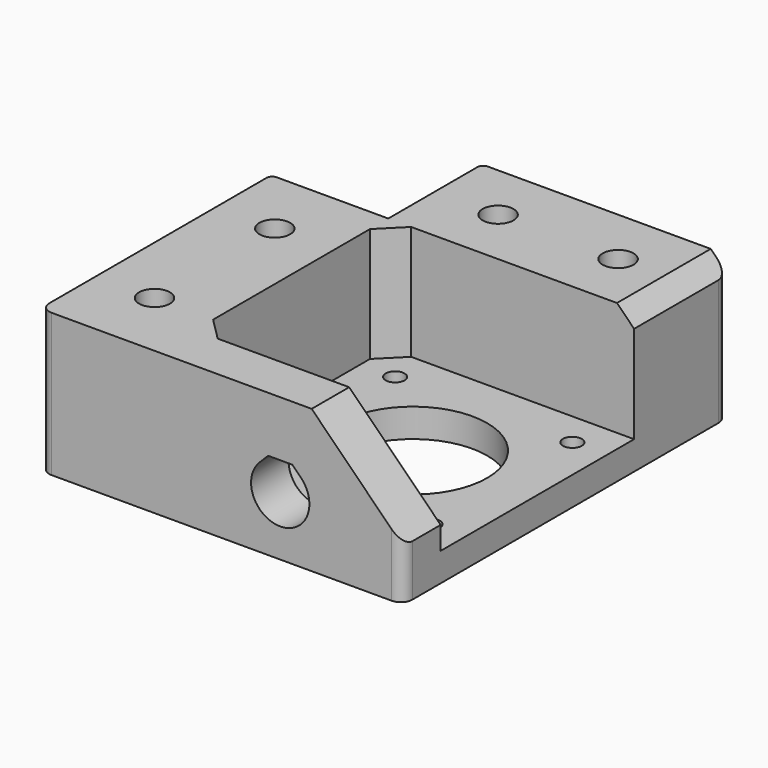
from build123d import *

# Parameters (mm, degrees)
EXTRUDE003_DEPTH           = 10
EXTRUDE003_PLACEMENT_ANGLE = 90
PRISM001_DEPTH             = 0.3
PRISM001_PLACEMENT_ANGLE   = 30
PRISM_DEPTH                = 0.3
SKETCH002_R                = 2.7
EXTRUDE002_DEPTH           = 25
SKETCH001_R                = 5.2
EXTRUDE001_DEPTH           = 6
SKETCH_R                   = 13
SKETCH_R_2                 = 1.65
EXTRUDE_DEPTH              = 5
BOX002_W                   = 43
BOX002_H                   = 42.3
BOX002_DEPTH               = 20
CHAMFER_SIZE               = 4
BOX001_W                   = 20.5
BOX001_H                   = 20.5
BOX001_DEPTH               = 25
BOX_W                      = 63.5
BOX_H                      = 71
BOX_DEPTH                  = 25
CHAMFER001_1_SIZE          = 16
CHAMFER001_2_SIZE          = 3
FILLET_1_R                 = 2
FILLET_2_R                 = 1


with BuildPart() as obj1:
    # Sketch003 → Extrude003 (new body)
    with BuildSketch(Plane.YZ):
        with BuildLine():
            ThreePointArc((-3.606261, 3.606229), (0, -5.1), (3.606261, 3.606229))
            Line((2.112489, 5.1), (3.606261, 3.606229))
            Line((-2.112489, 5.1), (2.112489, 5.1))
            Line((-3.606261, 3.606229), (-2.112489, 5.1))
        make_face()
    extrude(amount=EXTRUDE003_DEPTH)


with BuildPart() as obj1_1:
    # Extrude003 placement: moved
    add(obj1.part.moved(Location((42, 62, 10.2))).rotate(Axis((42, 62, 10.2), (0, 0, 1)), EXTRUDE003_PLACEMENT_ANGLE))


with BuildPart() as obj2:
    # Prism001 → Prism001 (new body)
    with BuildSketch(Plane.XY):
        Polygon((3.1, 0), (1.55, 2.684679), (-1.55, 2.684679), (-3.1, 0), (-1.55, -2.684679), (1.55, -2.684679), align=None)
    extrude(amount=PRISM001_DEPTH)


with BuildPart() as obj2_1:
    # Prism001 placement: moved
    add(obj2.part.moved(Location((10.25, 32.5, 6.3))).rotate(Axis((10.25, 32.5, 6.3), (0, 0, 1)), PRISM001_PLACEMENT_ANGLE))


with BuildPart() as soporte_circulos:
    # Prism → Prism (new body)
    with BuildSketch(Plane(origin=(10.25, 32.5, 6), x_dir=(1, 0, 0), z_dir=(0, 0, 1))):
        Polygon((5.3, 0), (-2.65, 4.589935), (-2.65, -4.589935), align=None)
    extrude(amount=PRISM_DEPTH)

    # Fusion003: union obj2
    add(obj2_1.part)


with BuildPart() as clone:
    # Clone base: copy of soporte_circulos
    add(soporte_circulos.part)


with BuildPart() as clone_1:
    # Clone placement: moved
    add(clone.part.moved(Location((0, 26.3, 0))))


with BuildPart() as clone001:
    # Clone001 base: copy of soporte_circulos
    add(soporte_circulos.part)


with BuildPart() as clone001_1:
    # Clone001 placement: moved
    add(clone001.part.moved(Location((21.25, -22.25, 0))))


with BuildPart() as clone002:
    # Clone002 base: copy of Clone001
    add(clone001_1.part)


with BuildPart() as clone002_1:
    # Clone002 placement: moved
    add(clone002.part.moved(Location((21, 0, 0))))


with BuildPart() as huecos_soporte_taladros:
    # Fusion004 base: copy of soporte_circulos
    add(soporte_circulos.part)

    # Fusion004: union Clone, Clone001, Clone002
    add(clone_1.part)
    add(clone001_1.part)
    add(clone002_1.part)


with BuildPart() as obj3:
    # Sketch002 → Extrude002 (new body)
    with BuildSketch(Plane.XY):
        with Locations((31.5, 10.25)):
            Circle(SKETCH002_R)
        with Locations((52.5, 10.25)):
            Circle(SKETCH002_R)
        with Locations((10.25, 32.5)):
            Circle(SKETCH002_R)
        with Locations((10.25, 58.8)):
            Circle(SKETCH002_R)
    extrude(amount=EXTRUDE002_DEPTH)


with BuildPart() as fusion005:
    # Sketch001 → Extrude001 (new body)
    with BuildSketch(Plane.XY):
        with Locations((31.5, 10.25)):
            Circle(SKETCH001_R)
        with Locations((52.5, 10.25)):
            Circle(SKETCH001_R)
        with Locations((10.25, 32.5)):
            Circle(SKETCH001_R)
        with Locations((10.25, 58.8)):
            Circle(SKETCH001_R)
    extrude(amount=EXTRUDE001_DEPTH)

    # Fusion001: union obj3
    add(obj3.part)

    # Fusion005: union obj1, huecos_soporte_taladros
    add(obj1_1.part)
    add(huecos_soporte_taladros.part)


with BuildPart() as agujero_motor:
    # Sketch → Extrude (new body)
    with BuildSketch(Plane(origin=(20.5, 20.5, 25), x_dir=(1, 0, 0), z_dir=(0, 0, 1))):
        with Locations((21.5, 21.5)):
            Circle(SKETCH_R)
        with Locations((6, 37)):
            Circle(SKETCH_R_2)
        with Locations((37, 37)):
            Circle(SKETCH_R_2)
        with Locations((37, 6)):
            Circle(SKETCH_R_2)
        with Locations((6, 6)):
            Circle(SKETCH_R_2)
    extrude(amount=EXTRUDE_DEPTH)


with BuildPart() as agujero_motor_1:
    # Extrude placement: moved
    add(agujero_motor.part.moved(Location((0, 0, -25))))


with BuildPart() as hueco_motor_total:
    # Box002 → Box002 (new body)
    with BuildSketch(Plane(origin=(20.5, 20.5, 5), x_dir=(1, 0, 0), z_dir=(0, 0, 1))):
        with Locations((21.5, 21.15)):
            Rectangle(BOX002_W, BOX002_H)
    extrude(amount=BOX002_DEPTH)

    # Chamfer
    chamfer_edges = [hueco_motor_total.edges().sort_by_distance(p)[0] for p in [
        (20.5, 20.5, 15),
        (20.5, 62.8, 15),
    ]]
    chamfer(chamfer_edges, length=CHAMFER_SIZE)

    # Fusion: union agujero_motor
    add(agujero_motor_1.part)


with BuildPart() as obj4:
    # Box001 → Box001 (new body)
    with BuildSketch(Plane.XY):
        with Locations((10.25, 10.25)):
            Rectangle(BOX001_W, BOX001_H)
    extrude(amount=BOX001_DEPTH)


with BuildPart() as obj5:
    # Box → Box (new body)
    with BuildSketch(Plane.XY):
        with Locations((31.75, 35.5)):
            Rectangle(BOX_W, BOX_H)
    extrude(amount=BOX_DEPTH)

    # Cut: cut obj4
    add(obj4.part, mode=Mode.SUBTRACT)

    # Cut001: cut hueco_motor_total
    add(hueco_motor_total.part, mode=Mode.SUBTRACT)

    # Cut003: cut Fusion005
    add(fusion005.part, mode=Mode.SUBTRACT)

    # Chamfer001 1
    chamfer001_1_edges = [obj5.edges().sort_by_distance(p)[0] for p in [
        (63.5, 66.9, 25),
    ]]
    chamfer(chamfer001_1_edges, length=CHAMFER001_1_SIZE)

    # Chamfer001 2
    chamfer001_2_edges = [obj5.edges().sort_by_distance(p)[0] for p in [
        (63.5, 10.25, 25),
    ]]
    chamfer(chamfer001_2_edges, length=CHAMFER001_2_SIZE)

    # Fillet 1
    fillet_1_edges = [obj5.edges().sort_by_distance(p)[0] for p in [
        (63.5, 71, 4.5),
        (0, 71, 12.5),
        (63.5, 0, 11),
    ]]
    fillet(fillet_1_edges, radius=FILLET_1_R)

    # Fillet 2
    fillet_2_edges = [obj5.edges().sort_by_distance(p)[0] for p in [
        (0, 20.5, 12.5),
        (20.5, 0, 12.5),
    ]]
    fillet(fillet_2_edges, radius=FILLET_2_R)


with BuildPart() as obj6:
    # Part__Mirroring: instance of obj5
    add(obj5.part.mirror(Plane(origin=(0, 0, 0), x_dir=(1, 0, 0), z_dir=(0, 1, 0))))


solid = obj6.part
